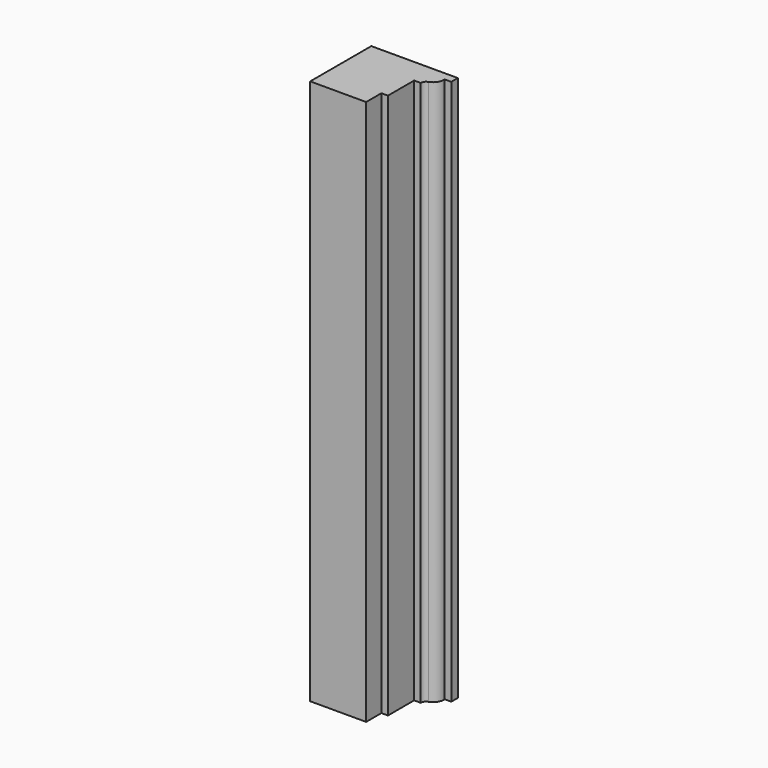
from build123d import *

# Parameters (mm, degrees)
F1_DEPTH = 1000


with BuildPart() as f1:
    # F0 (on Top) → F1 (new body)
    with BuildSketch(Plane.XY):
        with BuildLine():
            Line((70.681115, 69.605961), (-87.818885, 69.605961))
            Line((-87.818885, 69.605961), (-87.818885, -70.394039))
            Line((-87.818885, -70.394039), (14.681115, -70.394039))
            Line((14.681115, -70.394039), (14.681115, -35.394039))
            Line((14.681115, -35.394039), (26.681115, -35.394039))
            Line((26.681115, -35.394039), (26.681115, 24.605961))
            Line((26.681115, 24.605961), (38.681115, 24.605961))
            ThreePointArc((38.681115, 24.605961), (40.523457, 30.389785), (45.37164, 34.042453))
            ThreePointArc((45.37164, 34.042453), (55.542724, 42.048295), (58.681115, 54.605961))
            Line((58.681115, 54.605961), (70.681115, 54.605961))
            Line((70.681115, 54.605961), (70.681115, 69.605961))
        make_face()
    extrude(amount=F1_DEPTH)


solid = f1.part
